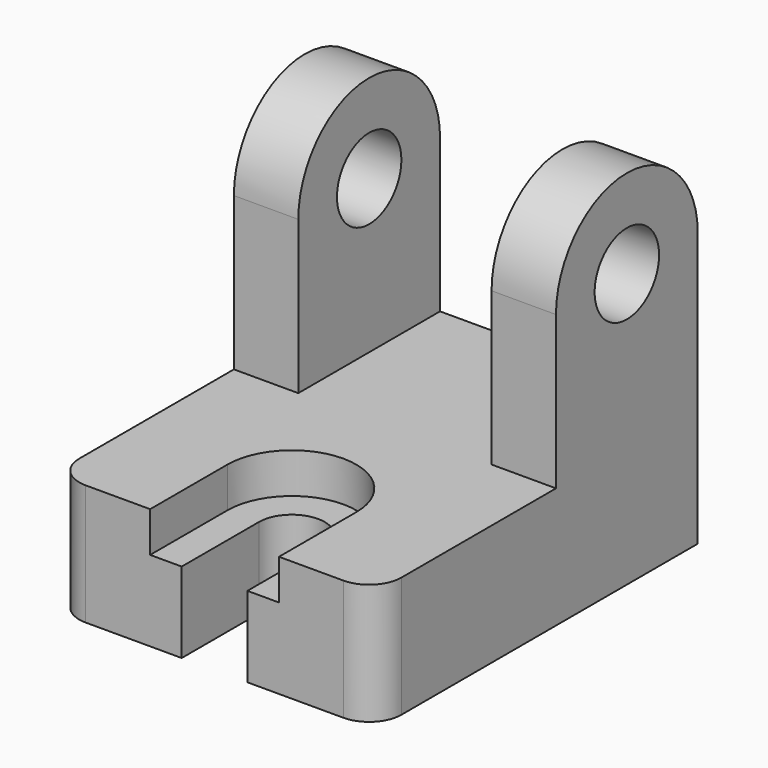
from build123d import *

# Parameters (mm, degrees)
F0_R     = 10
F1_DEPTH = 40
F2_W     = 48
F2_H     = 38
F2_H_2   = 22
F3_DEPTH = 44.001
F5_DEPTH = 30.001
F6_DEPTH = 10
F7_R     = 8


with BuildPart() as f1:
    # F0 (on Right) → F1 (new body, symmetric)
    with BuildSketch(Plane.YZ):
        with BuildLine():
            Line((-100, 0), (0, 0))
            Line((0, 0), (0, 68))
            ThreePointArc((0, 68), (-22, 90), (-44, 68))
            Line((-44, 68), (-44, 30))
            Line((-44, 30), (-100, 30))
            Line((-100, 30), (-100, 0))
        make_face()
        with Locations((-22, 68)):
            Circle(F0_R, mode=Mode.SUBTRACT)
    extrude(amount=F1_DEPTH, both=True)

    # F2 (on face) → F3 (cut, through all)
    with BuildSketch(Plane.XZ.offset(44)):
        with Locations((0, 49)):
            Rectangle(F2_W, F2_H)
        with Locations((0, 79)):
            Rectangle(F2_W, F2_H_2)
    extrude(amount=-F3_DEPTH, mode=Mode.SUBTRACT)

    # F4 (on face) → F5 (cut, through all)
    with BuildSketch(Plane.XY.offset(30)):
        with BuildLine():
            Line((-8.160617, -76), (-8.160617, -100))
            Line((-8.160617, -100), (8.160617, -100))
            Line((8.160617, -100), (8.160617, -76))
            ThreePointArc((8.160617, -76), (0, -67.839383), (-8.160617, -76))
        make_face()
    extrude(amount=-F5_DEPTH, mode=Mode.SUBTRACT)

    # F4 (on face) → F6 (cut)
    with BuildSketch(Plane.XY.offset(30)):
        with BuildLine():
            Line((-16, -76), (-16, -100))
            Line((-16, -100), (-8.160617, -100))
            Line((-8.160617, -100), (-8.160617, -76))
            ThreePointArc((-8.160617, -76), (0, -67.839383), (8.160617, -76))
            Line((8.160617, -76), (8.160617, -100))
            Line((8.160617, -100), (16, -100))
            Line((16, -100), (16, -76))
            ThreePointArc((16, -76), (0, -60), (-16, -76))
        make_face()
    extrude(amount=-F6_DEPTH, mode=Mode.SUBTRACT)

    # F7
    f7_edges = [f1.edges().sort_by_distance(p)[0] for p in [
        (-40, -100, 15),
        (40, -100, 15),
    ]]
    fillet(f7_edges, radius=F7_R)


solid = f1.part
